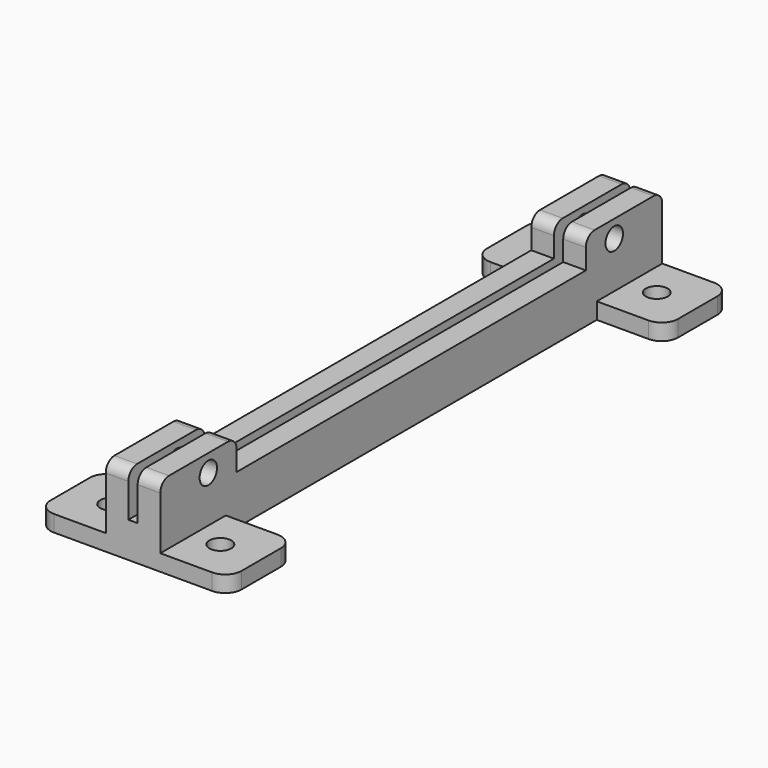
from build123d import *

# Parameters (mm, degrees)
SKETCH_R     = 2
PAD_DEPTH    = 3
SKETCH001_W  = 4.15
SKETCH001_H  = 115
PAD001_DEPTH = 11.7
SKETCH002_R  = 2
SKETCH002_W  = 80
SKETCH002_H  = 6
POCKET_DEPTH = 15
SKETCH003_W  = 4.09
SKETCH003_H  = 115
PAD002_DEPTH = 3.5
FILLET_R     = 2
FILLET001_R  = 2
FILLET002_R  = 2
FILLET003_R  = 2


with BuildPart() as part:
    # Sketch → Pad (new body)
    with BuildSketch(Plane.XY):
        with BuildLine():
            Line((-14.5, 57.5), (14.5, 57.5))
            ThreePointArc((17.5, 54.5), (16.62132, 56.62132), (14.5, 57.5))
            Line((17.5, 54.5), (17.5, 45.5))
            ThreePointArc((14.5, 42.5), (16.62132, 43.37868), (17.5, 45.5))
            Line((14.5, 42.5), (5, 42.5))
            Line((5, 42.5), (5, -42.5))
            Line((5, -42.5), (14.5, -42.5))
            ThreePointArc((17.5, -45.5), (16.62132, -43.37868), (14.5, -42.5))
            Line((17.5, -45.5), (17.5, -54.5))
            ThreePointArc((14.5, -57.5), (16.62132, -56.62132), (17.5, -54.5))
            Line((14.5, -57.5), (-14.5, -57.5))
            ThreePointArc((-17.5, -54.5), (-16.62132, -56.62132), (-14.5, -57.5))
            Line((-17.5, -54.5), (-17.5, -45.5))
            ThreePointArc((-14.5, -42.5), (-16.62132, -43.37868), (-17.5, -45.5))
            Line((-5, -42.5), (-14.5, -42.5))
            Line((-5, 42.5), (-5, -42.5))
            Line((-14.5, 42.5), (-5, 42.5))
            ThreePointArc((-17.5, 45.5), (-16.62132, 43.37868), (-14.5, 42.5))
            Line((-17.5, 45.5), (-17.5, 54.5))
            ThreePointArc((-14.5, 57.5), (-16.62132, 56.62132), (-17.5, 54.5))
        make_face()
        with Locations((-10, 50)):
            Circle(SKETCH_R, mode=Mode.SUBTRACT)
        with Locations((10, 50)):
            Circle(SKETCH_R, mode=Mode.SUBTRACT)
        with Locations((-10, -50)):
            Circle(SKETCH_R, mode=Mode.SUBTRACT)
        with Locations((10, -50)):
            Circle(SKETCH_R, mode=Mode.SUBTRACT)
    extrude(amount=PAD_DEPTH)

    # Sketch001 → Pad001 (join)
    with BuildSketch(Plane.XY.offset(3)):
        with Locations((-2.925, 0)):
            Rectangle(SKETCH001_W, SKETCH001_H)
        with Locations((2.925, 0)):
            Rectangle(SKETCH001_W, SKETCH001_H)
    extrude(amount=PAD001_DEPTH)

    # Sketch002 → Pocket (cut)
    with BuildSketch(Plane.YZ.offset(5)):
        with Locations((-46.5, 11.5)):
            Circle(SKETCH002_R)
        with Locations((46.5, 11.5)):
            Circle(SKETCH002_R)
        with Locations((0, 12)):
            Rectangle(SKETCH002_W, SKETCH002_H)
    extrude(amount=-POCKET_DEPTH, mode=Mode.SUBTRACT)

    # Sketch003 → Pad002 (join)
    with BuildSketch(Plane.XY.offset(3)):
        with Locations((0.341939, 0)):
            Rectangle(SKETCH003_W, SKETCH003_H)
    extrude(amount=PAD002_DEPTH)

    # Fillet
    fillet_edges = [part.edges().sort_by_distance(p)[0] for p in [
        (2.925, -57.5, 14.7),
    ]]
    fillet(fillet_edges, radius=FILLET_R)

    # Fillet001
    fillet001_edges = [part.edges().sort_by_distance(p)[0] for p in [
        (-2.925, -57.5, 14.7),
    ]]
    fillet(fillet001_edges, radius=FILLET001_R)

    # Fillet002
    fillet002_edges = [part.edges().sort_by_distance(p)[0] for p in [
        (-2.925, 57.5, 14.7),
        (2.925, 57.5, 14.7),
    ]]
    fillet(fillet002_edges, radius=FILLET002_R)

    # Fillet003
    fillet003_edges = [part.edges().sort_by_distance(p)[0] for p in [
        (-2.925, -40, 14.7),
        (2.925, -40, 14.7),
        (-2.925, 40, 14.7),
        (2.925, 40, 14.7),
    ]]
    fillet(fillet003_edges, radius=FILLET003_R)


solid = part.part
